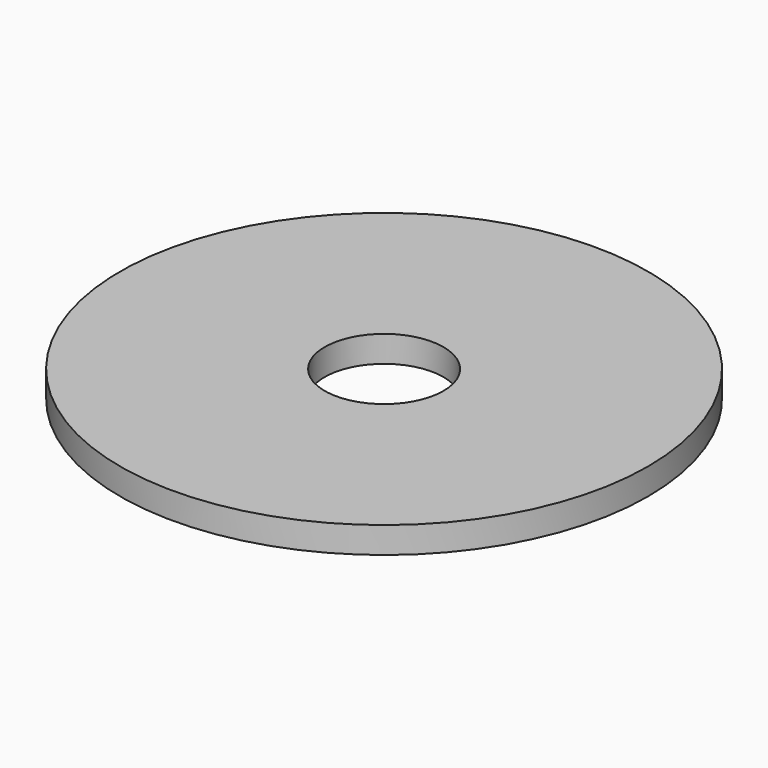
from build123d import *

# Parameters (mm, degrees)
SKETCH_R   = 20
SKETCH_R_2 = 4.5
PAD_DEPTH  = 2


with BuildPart() as part:
    # Sketch → Pad (new body)
    with BuildSketch(Plane.XY):
        Circle(SKETCH_R)
        Circle(SKETCH_R_2, mode=Mode.SUBTRACT)
    extrude(amount=PAD_DEPTH)


solid = part.part
